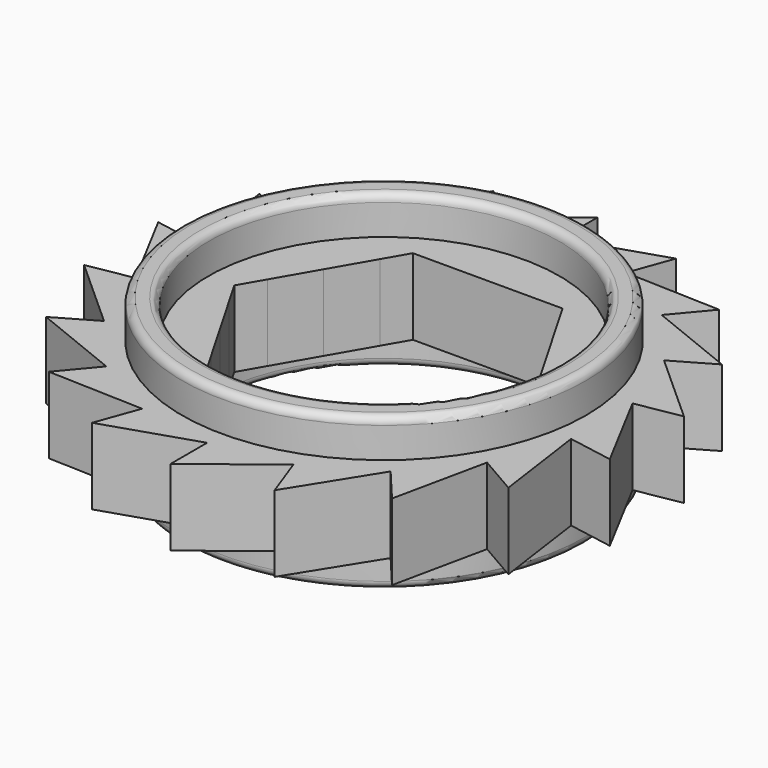
from build123d import *

# Parameters (mm, degrees)
F1_DEPTH = 5
F2_R     = 13.25
F2_R_2   = 11.5
F3_DEPTH = 2.5
F4_R     = 13.25
F4_R_2   = 11.5
F5_DEPTH = 2.5
F6_R     = 0.5


with BuildPart() as f1:
    # F0 (on Top) → F1 (new body)
    with BuildSketch(Plane.XY):
        with BuildLine():
            Line((3.0937469913, 8.5), (4.9592920782, 13.6255430014))
            ThreePointArc((4.9592920782, 13.6255430014), (2.5178985762, 14.2797124187), (0, 14.5))
            Line((0, 14.5), (0, 8.5))
            Line((0, 8.5), (3.0937469913, 8.5))
        make_face()
        with BuildLine():
            ThreePointArc((0, 14.5), (2.5178985762, 14.2797124187), (4.9592920782, 13.6255430014))
            Line((4.9592920782, 13.6255430014), (5.9853525082, 16.4446208638))
            Line((5.9853525082, 16.4446208638), (0, 14.5))
        make_face()
        with BuildLine():
            Line((-3.0937469913, 8.5), (0, 8.5))
            Line((0, 8.5), (0, 14.5))
            ThreePointArc((0, 14.5), (-2.5178985762, 14.2797124187), (-4.9592920782, 13.6255430014))
            Line((-4.9592920782, 13.6255430014), (-3.0937469913, 8.5))
        make_face()
        with BuildLine():
            ThreePointArc((-4.9592920782, 13.6255430014), (-2.5178985762, 14.2797124187), (0, 14.5))
            Line((0, 14.5), (0, 17.5))
            Line((0, 17.5), (-4.9592920782, 13.6255430014))
        make_face()
        with BuildLine():
            Line((5.8143424365, 6.9292634873), (9.3204203405, 11.1076444252))
            ThreePointArc((9.3204203405, 11.1076444252), (7.25, 12.5573683549), (4.9592920782, 13.6255430014))
            Line((4.9592920782, 13.6255430014), (3.0937469913, 8.5))
            Line((3.0937469913, 8.5), (4.9074772881, 8.5))
            Line((4.9074772881, 8.5), (5.8143424365, 6.9292634873))
        make_face()
        with BuildLine():
            ThreePointArc((4.9592920782, 13.6255430014), (7.25, 12.5573683549), (9.3204203405, 11.1076444252))
            Line((9.3204203405, 11.1076444252), (11.2487831695, 13.4057777546))
            Line((11.2487831695, 13.4057777546), (4.9592920782, 13.6255430014))
        make_face()
        with BuildLine():
            ThreePointArc((9.3204203405, 11.1076444252), (11.1076444252, 9.3204203405), (12.5573683549, 7.25))
            Line((12.5573683549, 7.25), (15.1554445662, 8.75))
            Line((15.1554445662, 8.75), (9.3204203405, 11.1076444252))
        make_face()
        with BuildLine():
            Line((8.9080894278, 1.5707365127), (14.2797124187, 2.5178985762))
            ThreePointArc((14.2797124187, 2.5178985762), (13.6255430014, 4.9592920782), (12.5573683549, 7.25))
            Line((12.5573683549, 7.25), (7.3612159322, 4.25))
            Line((7.3612159322, 4.25), (8.9080894278, 1.5707365127))
        make_face()
        with BuildLine():
            ThreePointArc((12.5573683549, 7.25), (13.6255430014, 4.9592920782), (14.2797124187, 2.5178985762))
            Line((14.2797124187, 2.5178985762), (17.2341356777, 3.0388431092))
            Line((17.2341356777, 3.0388431092), (12.5573683549, 7.25))
        make_face()
        with BuildLine():
            ThreePointArc((14.2797124187, -2.5178985762), (14.4448231223, -1.2637582698), (14.5, 0))
            ThreePointArc((14.5, 0), (14.4448231223, 1.2637582698), (14.2797124187, 2.5178985762))
            Line((14.2797124187, 2.5178985762), (8.9080894278, 1.5707365127))
            Line((8.9080894278, 1.5707365127), (9.8149545762, 0))
            Line((9.8149545762, 0), (8.9080894278, -1.5707365127))
            Line((8.9080894278, -1.5707365127), (14.2797124187, -2.5178985762))
        make_face()
        with BuildLine():
            ThreePointArc((14.2797124187, 2.5178985762), (14.4448231223, 1.2637582698), (14.5, 0))
            ThreePointArc((14.5, 0), (14.4448231223, -1.2637582698), (14.2797124187, -2.5178985762))
            Line((14.2797124187, -2.5178985762), (17.2341356777, -3.0388431092))
            Line((17.2341356777, -3.0388431092), (14.2797124187, 2.5178985762))
        make_face()
        with BuildLine():
            ThreePointArc((12.5573683549, -7.25), (13.6255430014, -4.9592920782), (14.2797124187, -2.5178985762))
            Line((14.2797124187, -2.5178985762), (8.9080894278, -1.5707365127))
            Line((8.9080894278, -1.5707365127), (7.3612159322, -4.25))
            Line((7.3612159322, -4.25), (12.5573683549, -7.25))
        make_face()
        with BuildLine():
            Line((15.1554445662, -8.75), (14.2797124187, -2.5178985762))
            ThreePointArc((14.2797124187, -2.5178985762), (13.6255430014, -4.9592920782), (12.5573683549, -7.25))
            Line((12.5573683549, -7.25), (15.1554445662, -8.75))
        make_face()
        with BuildLine():
            ThreePointArc((9.3204203405, -11.1076444252), (11.1076444252, -9.3204203405), (12.5573683549, -7.25))
            Line((12.5573683549, -7.25), (7.3612159322, -4.25))
            Line((7.3612159322, -4.25), (5.8143424365, -6.9292634873))
            Line((5.8143424365, -6.9292634873), (9.3204203405, -11.1076444252))
        make_face()
        with BuildLine():
            Line((11.2487831695, -13.4057777546), (12.5573683549, -7.25))
            ThreePointArc((12.5573683549, -7.25), (11.1076444252, -9.3204203405), (9.3204203405, -11.1076444252))
            Line((9.3204203405, -11.1076444252), (11.2487831695, -13.4057777546))
        make_face()
        with BuildLine():
            ThreePointArc((4.9592920782, -13.6255430014), (7.25, -12.5573683549), (9.3204203405, -11.1076444252))
            Line((9.3204203405, -11.1076444252), (5.8143424365, -6.9292634873))
            Line((5.8143424365, -6.9292634873), (4.9074772881, -8.5))
            Line((4.9074772881, -8.5), (3.0937469913, -8.5))
            Line((3.0937469913, -8.5), (4.9592920782, -13.6255430014))
        make_face()
        with BuildLine():
            Line((5.9853525082, -16.4446208638), (9.3204203405, -11.1076444252))
            ThreePointArc((9.3204203405, -11.1076444252), (7.25, -12.5573683549), (4.9592920782, -13.6255430014))
            Line((4.9592920782, -13.6255430014), (5.9853525082, -16.4446208638))
        make_face()
        with BuildLine():
            Line((0, -17.5), (4.9592920782, -13.6255430014))
            ThreePointArc((4.9592920782, -13.6255430014), (2.5178985762, -14.2797124187), (0, -14.5))
            Line((0, -14.5), (0, -17.5))
        make_face()
        with BuildLine():
            Line((0, -8.5), (-3.0937469913, -8.5))
            Line((-3.0937469913, -8.5), (-4.9592920782, -13.6255430014))
            ThreePointArc((-4.9592920782, -13.6255430014), (-2.5178985762, -14.2797124187), (0, -14.5))
            Line((0, -14.5), (0, -8.5))
        make_face()
        with BuildLine():
            ThreePointArc((0, -14.5), (-2.5178985762, -14.2797124187), (-4.9592920782, -13.6255430014))
            Line((-4.9592920782, -13.6255430014), (-5.9853525082, -16.4446208638))
            Line((-5.9853525082, -16.4446208638), (0, -14.5))
        make_face()
        with BuildLine():
            Line((7.3612159322, 4.25), (12.5573683549, 7.25))
            ThreePointArc((12.5573683549, 7.25), (11.1076444252, 9.3204203405), (9.3204203405, 11.1076444252))
            Line((9.3204203405, 11.1076444252), (5.8143424365, 6.9292634873))
            Line((5.8143424365, 6.9292634873), (7.3612159322, 4.25))
        make_face()
        with BuildLine():
            Line((3.0937469913, -8.5), (0, -8.5))
            Line((0, -8.5), (0, -14.5))
            ThreePointArc((0, -14.5), (2.5178985762, -14.2797124187), (4.9592920782, -13.6255430014))
            Line((4.9592920782, -13.6255430014), (3.0937469913, -8.5))
        make_face()
        with BuildLine():
            Line((-4.9074772881, -8.5), (-5.8143424365, -6.9292634873))
            Line((-5.8143424365, -6.9292634873), (-9.3204203405, -11.1076444252))
            ThreePointArc((-9.3204203405, -11.1076444252), (-7.25, -12.5573683549), (-4.9592920782, -13.6255430014))
            Line((-4.9592920782, -13.6255430014), (-3.0937469913, -8.5))
            Line((-3.0937469913, -8.5), (-4.9074772881, -8.5))
        make_face()
        with BuildLine():
            ThreePointArc((-4.9592920782, -13.6255430014), (-7.25, -12.5573683549), (-9.3204203405, -11.1076444252))
            Line((-9.3204203405, -11.1076444252), (-11.2487831695, -13.4057777546))
            Line((-11.2487831695, -13.4057777546), (-4.9592920782, -13.6255430014))
        make_face()
        with BuildLine():
            ThreePointArc((-9.3204203405, -11.1076444252), (-11.1076444252, -9.3204203405), (-12.5573683549, -7.25))
            Line((-12.5573683549, -7.25), (-15.1554445662, -8.75))
            Line((-15.1554445662, -8.75), (-9.3204203405, -11.1076444252))
        make_face()
        with BuildLine():
            Line((-5.8143424365, -6.9292634873), (-7.3612159322, -4.25))
            Line((-7.3612159322, -4.25), (-12.5573683549, -7.25))
            ThreePointArc((-12.5573683549, -7.25), (-11.1076444252, -9.3204203405), (-9.3204203405, -11.1076444252))
            Line((-9.3204203405, -11.1076444252), (-5.8143424365, -6.9292634873))
        make_face()
        with BuildLine():
            ThreePointArc((-12.5573683549, -7.25), (-13.6255430014, -4.9592920782), (-14.2797124187, -2.5178985762))
            Line((-14.2797124187, -2.5178985762), (-17.2341356777, -3.0388431092))
            Line((-17.2341356777, -3.0388431092), (-12.5573683549, -7.25))
        make_face()
        with BuildLine():
            Line((-7.3612159322, -4.25), (-8.9080894278, -1.5707365127))
            Line((-8.9080894278, -1.5707365127), (-14.2797124187, -2.5178985762))
            ThreePointArc((-14.2797124187, -2.5178985762), (-13.6255430014, -4.9592920782), (-12.5573683549, -7.25))
            Line((-12.5573683549, -7.25), (-7.3612159322, -4.25))
        make_face()
        with BuildLine():
            ThreePointArc((-14.2797124187, -2.5178985762), (-14.5, 0), (-14.2797124187, 2.5178985762))
            Line((-14.2797124187, 2.5178985762), (-17.2341356777, 3.0388431092))
            Line((-17.2341356777, 3.0388431092), (-14.2797124187, -2.5178985762))
        make_face()
        with BuildLine():
            Line((-9.8149545762, 0), (-8.9080894278, 1.5707365127))
            Line((-8.9080894278, 1.5707365127), (-14.2797124187, 2.5178985762))
            ThreePointArc((-14.2797124187, 2.5178985762), (-14.5, 0), (-14.2797124187, -2.5178985762))
            Line((-14.2797124187, -2.5178985762), (-8.9080894278, -1.5707365127))
            Line((-8.9080894278, -1.5707365127), (-9.8149545762, 0))
        make_face()
        with BuildLine():
            ThreePointArc((-14.2797124187, 2.5178985762), (-13.6255430014, 4.9592920782), (-12.5573683549, 7.25))
            Line((-12.5573683549, 7.25), (-15.1554445662, 8.75))
            Line((-15.1554445662, 8.75), (-14.2797124187, 2.5178985762))
        make_face()
        with BuildLine():
            Line((-8.9080894278, 1.5707365127), (-7.3612159322, 4.25))
            Line((-7.3612159322, 4.25), (-12.5573683549, 7.25))
            ThreePointArc((-12.5573683549, 7.25), (-13.6255430014, 4.9592920782), (-14.2797124187, 2.5178985762))
            Line((-14.2797124187, 2.5178985762), (-8.9080894278, 1.5707365127))
        make_face()
        with BuildLine():
            ThreePointArc((-12.5573683549, 7.25), (-11.1076444252, 9.3204203405), (-9.3204203405, 11.1076444252))
            Line((-9.3204203405, 11.1076444252), (-11.2487831695, 13.4057777546))
            Line((-11.2487831695, 13.4057777546), (-12.5573683549, 7.25))
        make_face()
        with BuildLine():
            Line((-7.3612159322, 4.25), (-5.8143424365, 6.9292634873))
            Line((-5.8143424365, 6.9292634873), (-9.3204203405, 11.1076444252))
            ThreePointArc((-9.3204203405, 11.1076444252), (-11.1076444252, 9.3204203405), (-12.5573683549, 7.25))
            Line((-12.5573683549, 7.25), (-7.3612159322, 4.25))
        make_face()
        with BuildLine():
            ThreePointArc((-9.3204203405, 11.1076444252), (-7.25, 12.5573683549), (-4.9592920782, 13.6255430014))
            Line((-4.9592920782, 13.6255430014), (-5.9853525082, 16.4446208638))
            Line((-5.9853525082, 16.4446208638), (-9.3204203405, 11.1076444252))
        make_face()
        with BuildLine():
            Line((-4.9074772881, 8.5), (-3.0937469913, 8.5))
            Line((-3.0937469913, 8.5), (-4.9592920782, 13.6255430014))
            ThreePointArc((-4.9592920782, 13.6255430014), (-7.25, 12.5573683549), (-9.3204203405, 11.1076444252))
            Line((-9.3204203405, 11.1076444252), (-5.8143424365, 6.9292634873))
            Line((-5.8143424365, 6.9292634873), (-4.9074772881, 8.5))
        make_face()
    extrude(amount=F1_DEPTH)

    # F2 (on face) → F3 (join)
    with BuildSketch(Plane.XY.offset(5)):
        Circle(F2_R)
        Circle(F2_R_2, mode=Mode.SUBTRACT)
    extrude(amount=F3_DEPTH)

    # F4 (on face) → F5 (join)
    with BuildSketch(Plane.XY):
        Circle(F4_R)
        Circle(F4_R_2, mode=Mode.SUBTRACT)
    extrude(amount=-F5_DEPTH)

    # F6
    f6_edges = [f1.edges().sort_by_distance(p)[0] for p in [
        (-13.25, 0, 7.5),
        (-11.5, 0, 7.5),
        (-13.25, 0, -2.5),
        (-11.5, 0, -2.5),
    ]]
    fillet(f6_edges, radius=F6_R)


solid = f1.part
